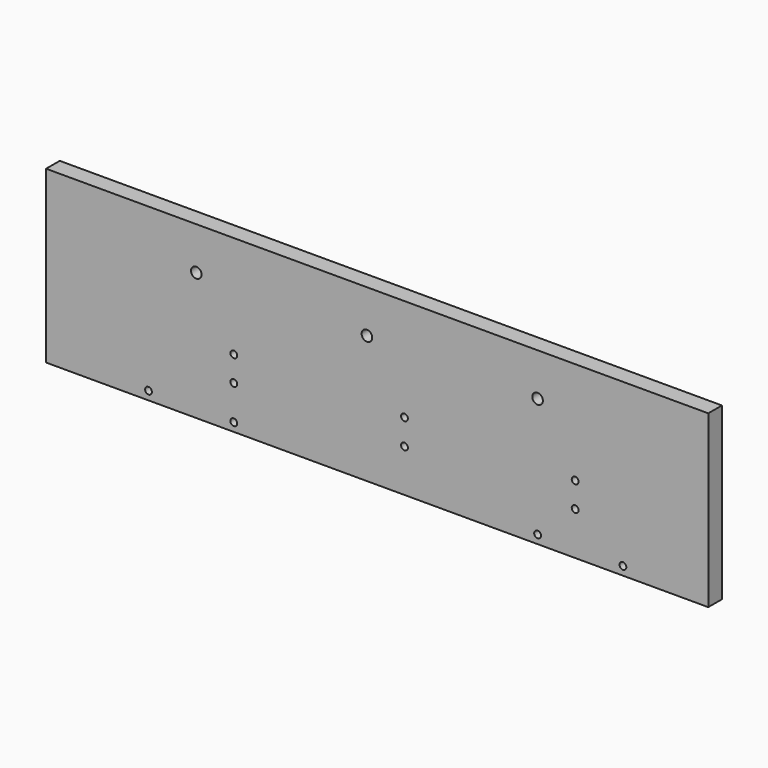
from build123d import *

# Parameters (mm, degrees)
F0_W     = 388
F0_H     = 100
F0_R     = 2
F1_DEPTH = 10
F2_R     = 3.1
F3_DEPTH = 10
F4_R     = 2
F5_DEPTH = 10


with BuildPart() as f1:
    # F0 (on Front) → F1 (new body)
    with BuildSketch(Plane.XZ):
        Rectangle(F0_W, F0_H)
        with Locations((-134, -45)):
            Circle(F0_R, mode=Mode.SUBTRACT)
        with Locations((-84, -45)):
            Circle(F0_R, mode=Mode.SUBTRACT)
        with Locations((-84, -24.753856)):
            Circle(F0_R, mode=Mode.SUBTRACT)
        with Locations((-84, -10)):
            Circle(F0_R, mode=Mode.SUBTRACT)
        with Locations((94, -45)):
            Circle(F0_R, mode=Mode.SUBTRACT)
        with Locations((144, -45)):
            Circle(F0_R, mode=Mode.SUBTRACT)
        with Locations((16, -25)):
            Circle(F0_R, mode=Mode.SUBTRACT)
        with Locations((16, -10)):
            Circle(F0_R, mode=Mode.SUBTRACT)
        with Locations((116, -24.753856)):
            Circle(F0_R, mode=Mode.SUBTRACT)
        with Locations((116, -10)):
            Circle(F0_R, mode=Mode.SUBTRACT)
    extrude(amount=F1_DEPTH)

    # F2 (on face) → F3 (cut)
    with BuildSketch(Plane.XZ.offset(10)):
        with Locations((-6, 25)):
            Circle(F2_R)
        with Locations((94, 25)):
            Circle(F2_R)
        with Locations((-106, 25)):
            Circle(F2_R)
    extrude(amount=-F3_DEPTH, mode=Mode.SUBTRACT)

    # F4 (on face) → F5 (cut)
    with BuildSketch(Plane(origin=(-194, 0, 0), x_dir=(0, -1, 0), z_dir=(-1, 0, 0))):
        with Locations((5, -30)):
            Circle(F4_R)
        with Locations((5, 30)):
            Circle(F4_R)
    extrude(amount=-F5_DEPTH, mode=Mode.SUBTRACT)


solid = f1.part
